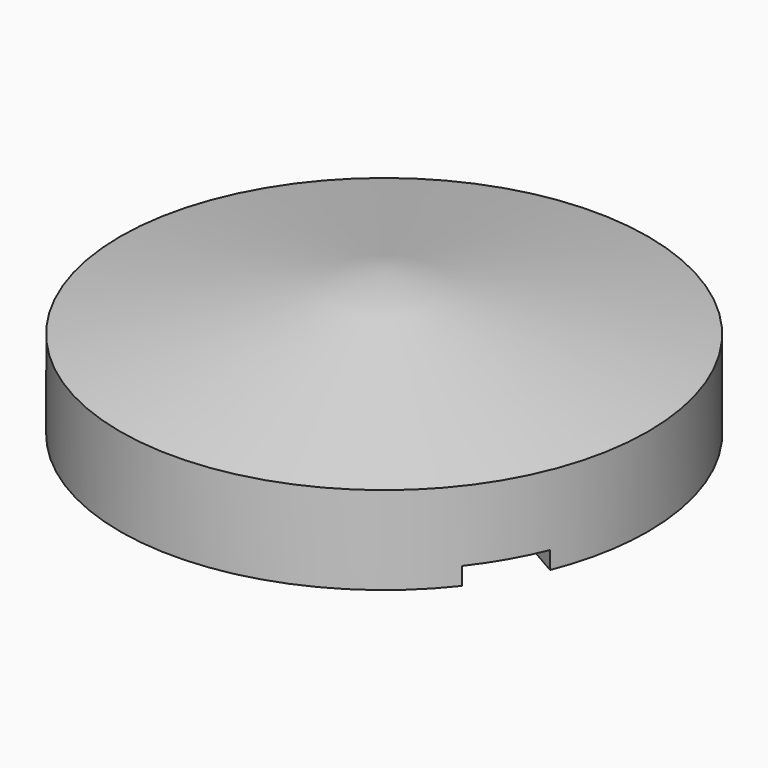
from build123d import *

# Parameters (mm, degrees)
SKETCH001_R           = 1.9
POCKET_DEPTH          = 4.5
POLARPATTERN_COUNT    = 3
POCKET001_DEPTH       = 1
POCKET002_DEPTH       = 2.2
POLARPATTERN001_COUNT = 3
SKETCH004_R           = 2
POCKET003_DEPTH       = 4


with BuildPart() as part:
    # Sketch → Revolution (revolve)
    with BuildSketch(Plane.XZ):
        Polygon((0, 0), (15, 0), (15, 5), (0, 8), align=None)
    revolve(axis=Axis((0, 0, 0), (0, 0, 1)))

    # Sketch001 → Pocket (cut)
    with BuildSketch(Plane(origin=(0, 0, 0), x_dir=(1, 0, 0), z_dir=(0, 0, -1))):
        with Locations((0, 10)):
            Circle(SKETCH001_R)
    pocket = extrude(amount=-POCKET_DEPTH, mode=Mode.SUBTRACT)

    # PolarPattern: Pocket ×3 about axis
    polarpattern_axis = Axis((0, 0, 0), (0, 0, -1))
    for i in range(1, POLARPATTERN_COUNT):
        add(pocket.rotate(polarpattern_axis, i * 360 / POLARPATTERN_COUNT), mode=Mode.SUBTRACT)

    # Sketch002 → Pocket001 (cut)
    with BuildSketch(Plane(origin=(0, 0, 0), x_dir=(1, 0, 0), z_dir=(0, 0, -1))):
        with BuildLine():
            Line((4.884242, 5.24479), (6.984242, 1.607483))
            Line((6.984242, 1.607483), (13.912445, 5.607483))
            ThreePointArc((13.912445, 5.607483), (12.990381, 7.5), (11.812445, 9.24479))
            Line((4.884242, 5.24479), (11.812445, 9.24479))
        make_face()
    pocket001 = extrude(amount=-POCKET001_DEPTH, mode=Mode.SUBTRACT)

    # Sketch003 → Pocket002 (cut)
    with BuildSketch(Plane(origin=(0, 0, 1), x_dir=(1, 0, 0), z_dir=(0, 0, -1))):
        Polygon((4.884242, 5.24479), (6.984242, 1.607483), (10.448344, 3.607483), (8.34834, 7.244788), align=None)
    pocket002 = extrude(amount=-POCKET002_DEPTH, mode=Mode.SUBTRACT)

    # PolarPattern001: Pocket002, Pocket001 ×3 about axis
    polarpattern001_axis = Axis((0, 0, 1), (0, 0, -1))
    for i in range(1, POLARPATTERN001_COUNT):
        add(pocket002.rotate(polarpattern001_axis, i * 360 / POLARPATTERN001_COUNT), mode=Mode.SUBTRACT)
        add(pocket001.rotate(polarpattern001_axis, i * 360 / POLARPATTERN001_COUNT), mode=Mode.SUBTRACT)

    # Sketch004 → Pocket003 (cut)
    with BuildSketch(Plane(origin=(0, 0, 0), x_dir=(1, 0, 0), z_dir=(0, 0, -1))):
        Circle(SKETCH004_R)
    extrude(amount=-POCKET003_DEPTH, mode=Mode.SUBTRACT)


solid = part.part
